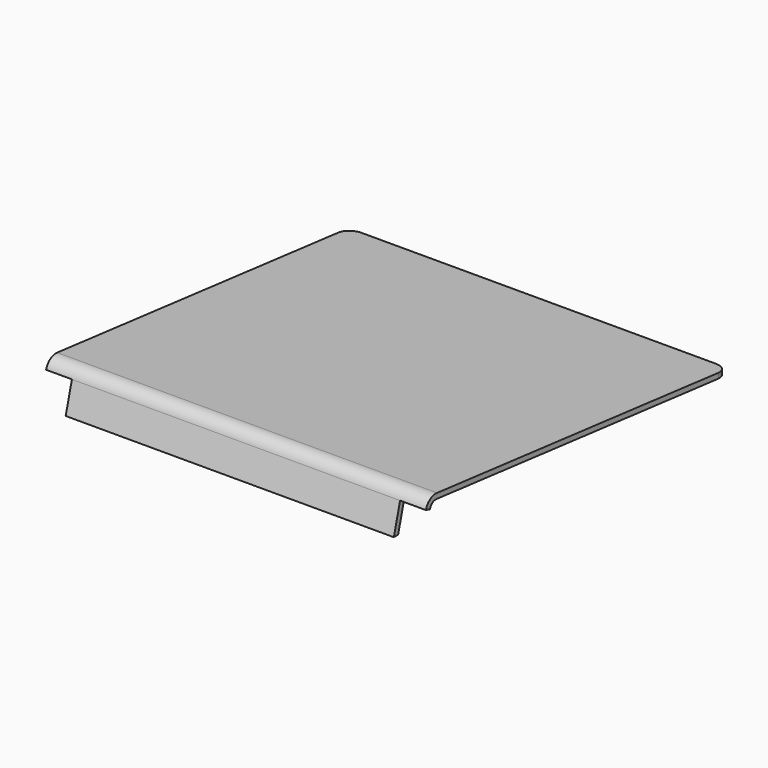
from build123d import *

# Parameters (mm, degrees)
F3_DEPTH  = 131
F4_T      = -2
F5_DEPTH  = 2
F6_DEPTH  = 2
F7_DEPTH  = 2
F9_DEPTH  = 127
F13_DEPTH = 10
F15_DEPTH = 10
F16_R     = 5


with BuildPart() as f3:
    # F2 (on Right) → F3 (new body)
    with BuildSketch(Plane.YZ):
        with BuildLine():
            ThreePointArc((-91.0913455441, 16.9367446821), (-94.4482121177, 16.0862273851), (-96.4473620115, 13.2586254741))
            Line((-96.4473620115, 13.2586254741), (-100, 0))
            Line((-100, 0), (50, 0))
            Line((50, 0), (50, 2))
            Line((50, 2), (-91.0913455441, 16.9367446821))
        make_face()
    extrude(amount=F3_DEPTH)

    # F4 (hollow: no face is removed)
    offset(amount=F4_T, mode=Mode.SUBTRACT)

    # F5 (cut): a face of the model
    f5_faces = [f3.faces().sort_by_distance(p)[0] for p in [
        (65.5, -25, 0),
    ]]
    extrude(f5_faces, amount=-F5_DEPTH, mode=Mode.SUBTRACT)

    # F6 (cut): a face of the model
    f6_faces = [f3.faces().sort_by_distance(p)[0] for p in [
        (131, -48.1192247529, 7.0991070321),
    ]]
    extrude(f6_faces, amount=-F6_DEPTH, mode=Mode.SUBTRACT)

    # F7 (cut): a face of the model
    f7_faces = [f3.faces().sort_by_distance(p)[0] for p in [
        (0, -48.1192247529, 7.0991070321),
    ]]
    extrude(f7_faces, amount=-F7_DEPTH, mode=Mode.SUBTRACT)


with BuildPart() as f9:
    # F8 (on face) → F9 (new body)
    with BuildSketch(Plane.YZ.offset(129)):
        Polygon((50, 2), (31.0025824745, 2), (50, 0), align=None)
    extrude(amount=-F9_DEPTH)

    # F10: union F3
    add(f3.part)

    # F12 (on face) → F13 (join)
    with BuildSketch(Plane.YZ.offset(129)):
        Polygon((50, 2), (-91.0913455441, 16.9367446821), (-91.3019004785, 14.9478589087), (31.0025824745, 2), (50, 0), align=None)
        with BuildLine():
            ThreePointArc((-91.0913455441, 16.9367446821), (-94.4482121177, 16.0862273851), (-96.4473620115, 13.2586254741))
            Line((-96.4473620115, 13.2586254741), (-94.5155103589, 12.7409873839))
            ThreePointArc((-94.5155103589, 12.7409873839), (-93.3160204226, 14.4375485305), (-91.3019004785, 14.9478589087))
            Line((-91.3019004785, 14.9478589087), (-91.0913455441, 16.9367446821))
        make_face()
    extrude(amount=F13_DEPTH)

    # F14 (on face) → F15 (join)
    with BuildSketch(Plane(origin=(2, 0, 0), x_dir=(0, -1, 0), z_dir=(-1, 0, 0))):
        with BuildLine():
            ThreePointArc((91.3019004785, 14.9478589087), (93.3160204226, 14.4375485305), (94.5155103589, 12.7409873839))
            Line((94.5155103589, 12.7409873839), (96.4473620115, 13.2586254741))
            ThreePointArc((96.4473620115, 13.2586254741), (94.4482121177, 16.0862273851), (91.0913455441, 16.9367446821))
            Line((91.0913455441, 16.9367446821), (-50, 2))
            Line((-50, 2), (-50, 0))
            Line((-50, 0), (-31.0025824745, 2))
            Line((-31.0025824745, 2), (91.3019004785, 14.9478589087))
        make_face()
    extrude(amount=F15_DEPTH)

    # F16
    f16_edges = [f9.edges().sort_by_distance(p)[0] for p in [
        (139, 50, 1),
        (-8, 50, 1),
    ]]
    fillet(f16_edges, radius=F16_R)


solid = f9.part
